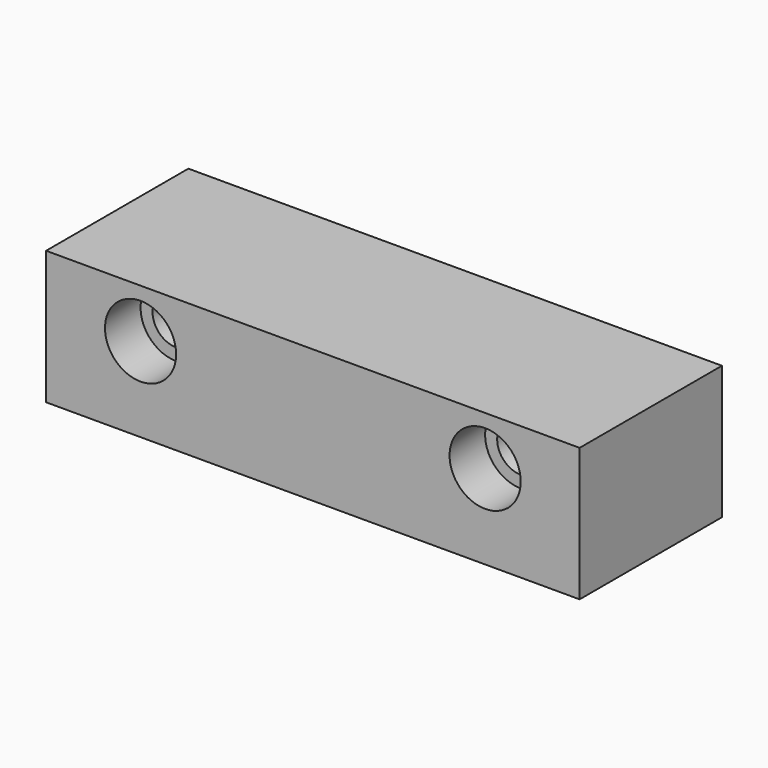
from build123d import *

# Parameters (mm, degrees)
F0_W           = 152.4
F0_H           = 38.1
F1_DEPTH       = 50.8
F2_D           = 13.462
F2_CBORE_D     = 20.32
F2_CBORE_DEPTH = 12.7


with BuildPart() as f1:
    # F0 (on Front) → F1 (new body)
    with BuildSketch(Plane.XZ):
        Rectangle(F0_W, F0_H)
    extrude(amount=-F1_DEPTH)

    # F2 (through all)
    with Locations(Plane.XZ):
        with Locations((49.2125, 5.08), (-49.2125, 5.08)):
            CounterBoreHole(F2_D / 2, F2_CBORE_D / 2, F2_CBORE_DEPTH)


solid = f1.part
